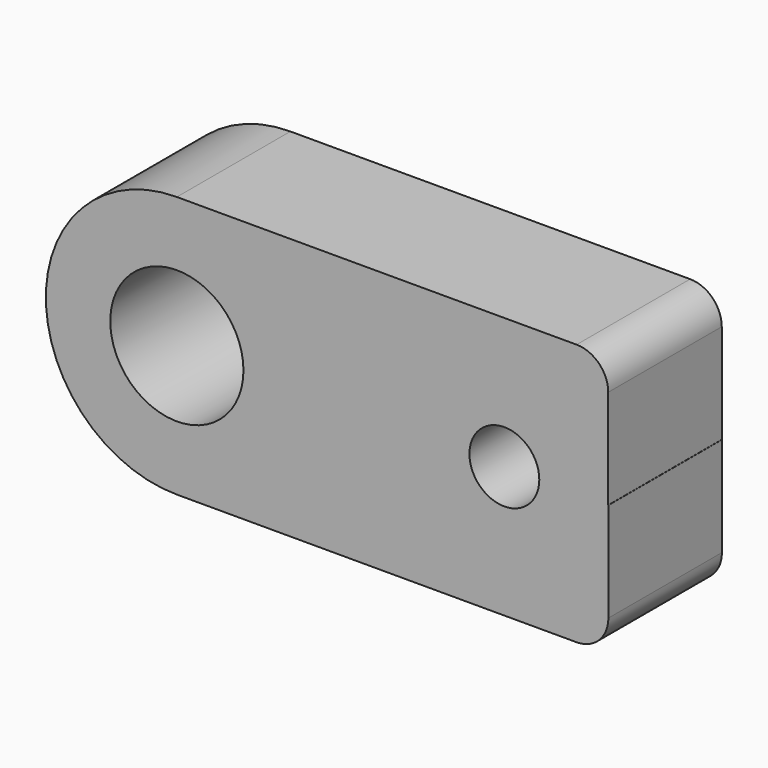
from build123d import *

# Parameters (mm, degrees)
F0_R     = 3.05
F0_R_2   = 1.6
F1_DEPTH = 6.5
F2_R     = 1.448528


with BuildPart() as f1:
    # F0 (on Front) → F1 (new body)
    with BuildSketch(Plane.XZ):
        with BuildLine():
            Line((4.757804, 6), (-15, 6))
            ThreePointArc((-15, 6), (-21, 0), (-15, -6))
            Line((-15, -6), (4.765088, -6))
            Line((4.765088, -6), (4.765088, 0))
            Line((4.765088, 0), (4.757804, 0))
            Line((4.757804, 0), (4.757804, 6))
        make_face()
        with Locations((-15, 0)):
            Circle(F0_R, mode=Mode.SUBTRACT)
        Circle(F0_R_2, mode=Mode.SUBTRACT)
    extrude(amount=F1_DEPTH)

    # F2
    f2_edges = [f1.edges().sort_by_distance(p)[0] for p in [
        (4.757804, -3.25, 6),
        (4.765088, -3.25, -6),
    ]]
    fillet(f2_edges, radius=F2_R)


solid = f1.part
